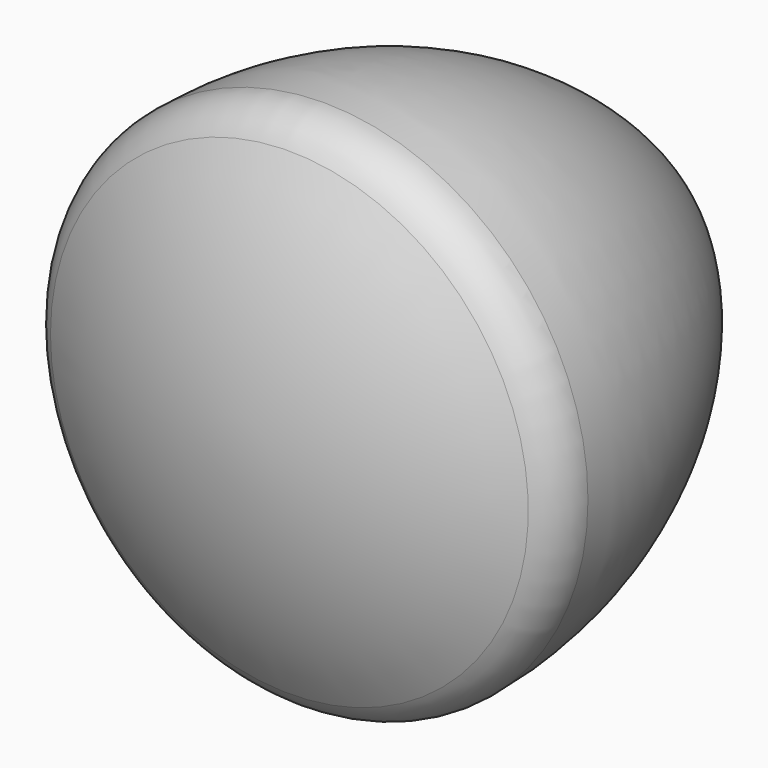
from build123d import *


with BuildPart() as f1:
    # F0 (on Top) → F1 (revolve)
    with BuildSketch(Plane.XY):
        with BuildLine():
            Line((-20.7443091924, -8.42390999), (-2.787864159, 22.6775651312))
            ThreePointArc((-2.787864159, 22.6775651312), (-5.5536730214, 27.0108460323), (-3.5985761906, 31.7652774823))
            ThreePointArc((-3.5985761906, 31.7652774823), (-22.2031678624, 12.6283058176), (-28.9897531426, -13.1844192613))
            ThreePointArc((-28.9897531426, -13.1844192613), (-26.2412718203, -8.4239099867), (-20.7443091924, -8.42390999))
        make_face()
        with BuildLine():
            Line((-23.4927905091, -13.1844192742), (-20.7443091924, -8.42390999))
            ThreePointArc((-20.7443091924, -8.42390999), (-26.2412718203, -8.4239099867), (-28.9897531426, -13.1844192613))
            ThreePointArc((-28.9897531426, -13.1844192613), (-28.2532997759, -15.9329006212), (-26.2412717541, -17.9449285999))
            ThreePointArc((-26.2412717541, -17.9449285999), (-20.7443091565, -17.9449285378), (-17.9958278756, -13.1844192742))
            Line((-17.9958278756, -13.1844192742), (-23.4927905091, -13.1844192742))
        make_face()
        with BuildLine():
            Line((0, -24.9762561526), (0, -13.1844192742))
            Line((0, -13.1844192742), (-17.9958278756, -13.1844192742))
            ThreePointArc((-17.9958278756, -13.1844192742), (-20.7443091565, -17.9449285378), (-26.2412717541, -17.9449285999))
            ThreePointArc((-26.2412717541, -17.9449285999), (-13.5834817925, -23.1879568541), (0, -24.9762561526))
        make_face()
        with BuildLine():
            Line((-2.787864159, 22.6775651312), (0, 27.5062874992))
            Line((0, 27.5062874992), (0, 33.0820158171))
            ThreePointArc((0, 33.0820158171), (-0.9588366399, 32.9989533886), (-1.8891054245, 32.7522408892))
            ThreePointArc((-1.8891054245, 32.7522408892), (-2.7484813167, 32.2667967834), (-3.5985761906, 31.7652774823))
            ThreePointArc((-3.5985761906, 31.7652774823), (-5.5536730214, 27.0108460323), (-2.787864159, 22.6775651312))
        make_face()
    revolve(axis=Axis((0, 4.3850952799, 0), (0, -1, 0)))


solid = f1.part
